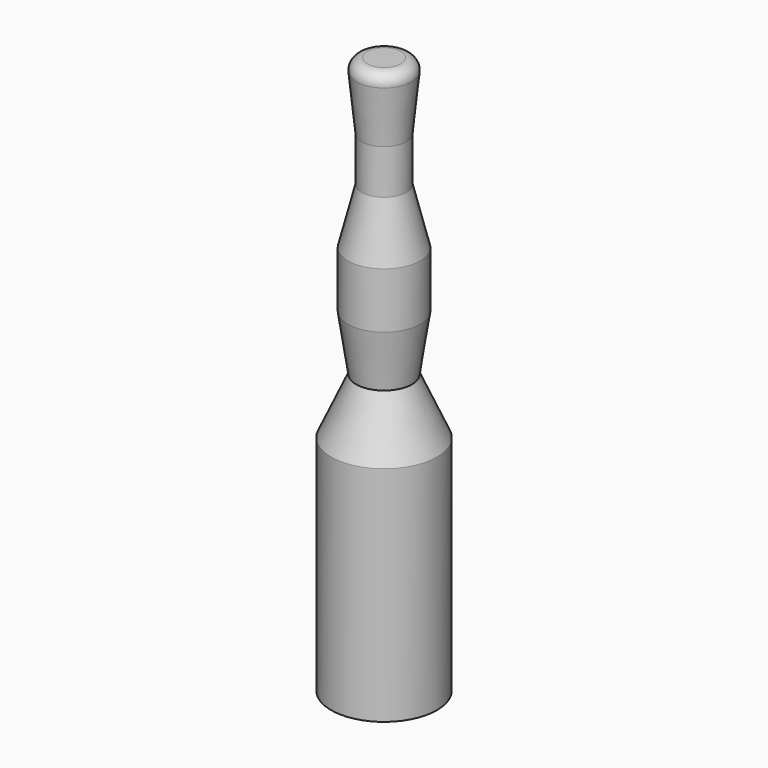
from build123d import *


with BuildPart() as f1:
    # F0 (on Front) → F1 (revolve)
    with BuildSketch(Plane.XZ):
        with BuildLine():
            Line((0, 0), (0, -0.0111620878))
            ThreePointArc((0, -0.0111620878), (0.0055810439, -0.0055810439), (0, 0))
        make_face()
        with BuildLine():
            ThreePointArc((0, 0), (0.0055810439, -0.0055810439), (0, -0.0111620878))
            Line((0, -0.0111620878), (0, -81.6583442783))
            Line((0, -81.6583442783), (0, -100))
            Line((0, -100), (9.5, -100))
            Line((9.5, -100), (9.5, -60))
            Line((9.5, -60), (5, -50))
            Line((5, -50), (6.5, -40))
            Line((6.5, -40), (6.5, -30))
            Line((6.5, -30), (4, -20))
            Line((4, -20), (4, -12))
            Line((4, -12), (5, -2.2030907675))
            ThreePointArc((5, -2.2030907675), (4.4946194137, -0.6595115694), (3.0103381845, 0))
            Line((3.0103381845, 0), (0, 0))
        make_face()
    revolve(axis=Axis((0, 0, -50), (0, 0, 1)))


solid = f1.part
